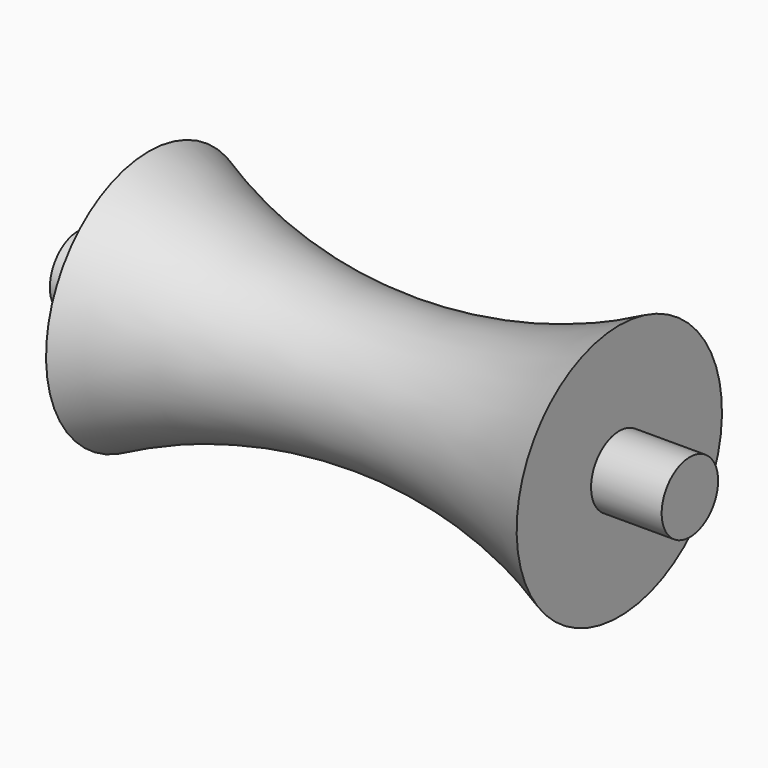
from build123d import *

# Parameters (mm, degrees)
F2_R     = 9.525
F3_DEPTH = 19.05
F4_R     = 9.525
F5_DEPTH = 19.05


with BuildPart() as f1:
    # F0 (on Front) → F1 (revolve)
    with BuildSketch(Plane.XZ):
        with BuildLine():
            ThreePointArc((63.5, 0), (0, -15.24), (-63.5, 0))
            Line((-63.5, 0), (-63.5, -34.633189))
            Line((-63.5, -34.633189), (63.5, -34.633189))
            Line((63.5, -34.633189), (63.5, 0))
        make_face()
    revolve(axis=Axis((0, 0, -34.633189), (-1, 0, 0)))

    # F2 (on face) → F3 (join)
    with BuildSketch(Plane(origin=(-63.5, 0, 0), x_dir=(0, -1, 0), z_dir=(-1, 0, 0))):
        with Locations((0, -34.633189)):
            Circle(F2_R)
    extrude(amount=F3_DEPTH)

    # F4 (on face) → F5 (join)
    with BuildSketch(Plane.YZ.offset(63.5)):
        with Locations((0, -34.633189)):
            Circle(F4_R)
    extrude(amount=F5_DEPTH)


solid = f1.part
